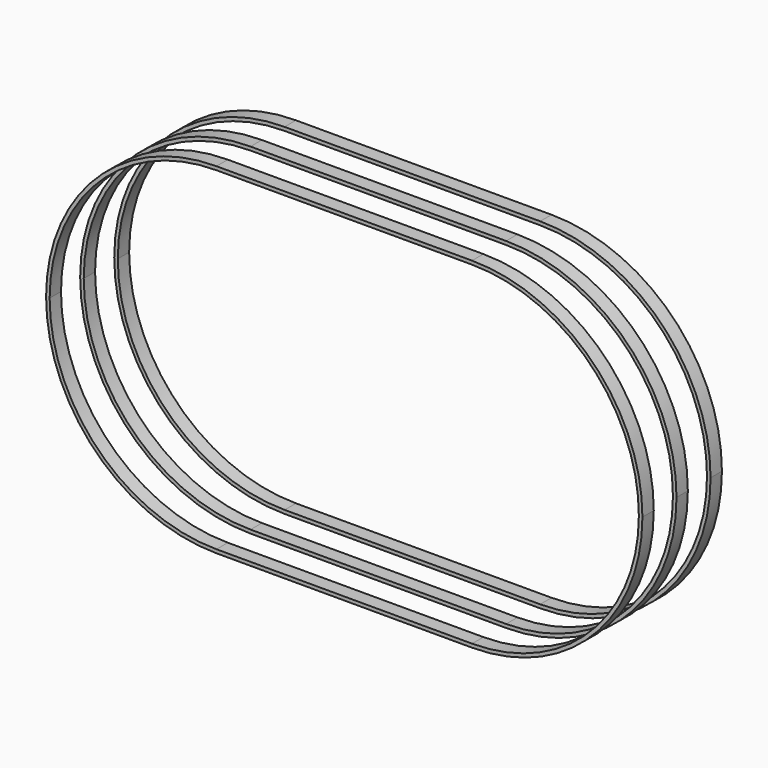
from build123d import *

# Parameters (mm, degrees)
F0_W     = 1828.8
F0_H     = 25.49998
F1_DEPTH = 101.6


with BuildPart() as f1:
    # F0 (on Front) → F1 (new body)
    with BuildSketch(Plane.XZ):
        with BuildLine():
            Line((-2108.10002, 0), (-2133.6, 0))
            ThreePointArc((-2133.6, 0), (-1776.504588, -862.104588), (-914.4, -1219.2))
            Line((-914.4, -1219.2), (-914.4, -1193.70002))
            ThreePointArc((-914.4, -1193.70002), (-1758.473379, -844.073379), (-2108.10002, 0))
        make_face()
        with Locations((0, -1206.45001)):
            Rectangle(F0_W, F0_H)
        with BuildLine():
            ThreePointArc((914.4, -1219.2), (1776.504588, -862.104588), (2133.6, 0))
            Line((2133.6, 0), (2108.10002, 0))
            ThreePointArc((2108.10002, 0), (1758.473379, -844.073379), (914.4, -1193.70002))
            Line((914.4, -1193.70002), (914.4, -1219.2))
        make_face()
        with BuildLine():
            Line((-914.4, 1193.70002), (-914.4, 1219.2))
            ThreePointArc((-914.4, 1219.2), (-1776.504588, 862.104588), (-2133.6, 0))
            Line((-2133.6, 0), (-2108.10002, 0))
            ThreePointArc((-2108.10002, 0), (-1758.473379, 844.073379), (-914.4, 1193.70002))
        make_face()
        with BuildLine():
            ThreePointArc((2133.6, 0), (1776.504588, 862.104588), (914.4, 1219.2))
            Line((914.4, 1219.2), (914.4, 1193.70002))
            ThreePointArc((914.4, 1193.70002), (1758.473379, 844.073379), (2108.10002, 0))
            Line((2108.10002, 0), (2133.6, 0))
        make_face()
        with Locations((0, 1206.45001)):
            Rectangle(F0_W, F0_H)
    extrude(amount=F1_DEPTH)


with BuildPart() as f2_1:
    # F2: copy of F1
    add(f1.part.moved(Location((0, 304.8, 0))))


with BuildPart() as f3_1:
    # F3: copy of F1
    add(f1.part.moved(Location((0, -304.8, 0))))


solid = Compound([f1.part, f2_1.part, f3_1.part])
